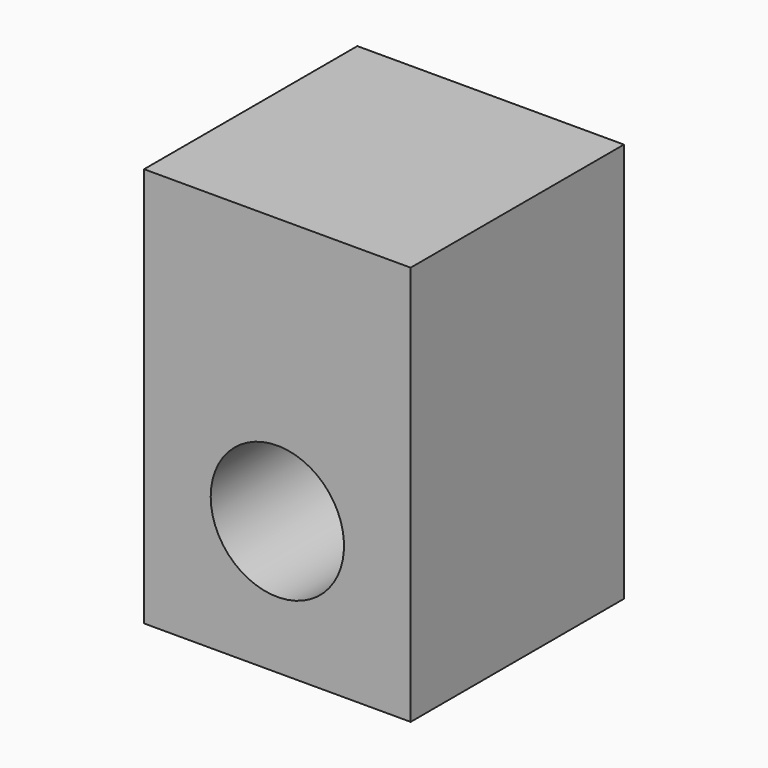
from build123d import *

# Parameters (mm, degrees)
F0_W     = 25.4
F0_H     = 25.4
F1_DEPTH = 38.1
F2_R     = 6.35
F3_DEPTH = 25.401


with BuildPart() as f1:
    # F0 (on Top) → F1 (new body)
    with BuildSketch(Plane.XY):
        with Locations((12.7, 12.7)):
            Rectangle(F0_W, F0_H)
    extrude(amount=F1_DEPTH)

    # F2 (on face) → F3 (cut, through all)
    with BuildSketch(Plane(origin=(0, 25.4, 0), x_dir=(-1, 0, 0), z_dir=(0, 1, 0))):
        with Locations((-12.7, 12.7)):
            Circle(F2_R)
    extrude(amount=-F3_DEPTH, mode=Mode.SUBTRACT)


solid = f1.part
